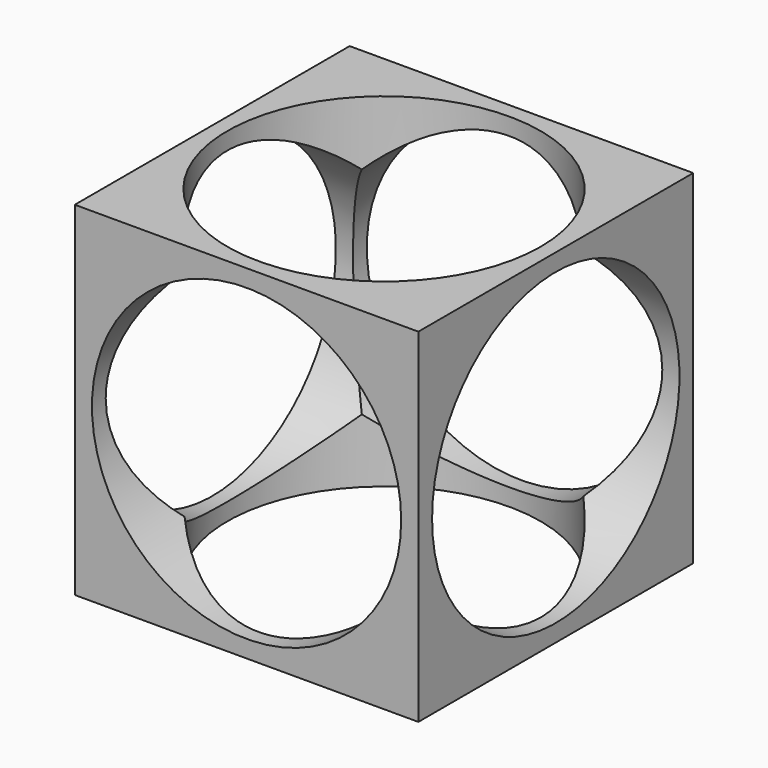
from build123d import *

# Parameters (mm, degrees)
F0_W     = 50
F0_H     = 50
F1_DEPTH = 50
F2_R     = 22.803226
F3_DEPTH = 50
F4_R     = 22.5
F5_DEPTH = 50
F6_R     = 22.5
F7_DEPTH = 50


with BuildPart() as f1:
    # F0 (on Top) → F1 (new body)
    with BuildSketch(Plane.XY):
        Rectangle(F0_W, F0_H)
    extrude(amount=F1_DEPTH)

    # F2 (on face) → F3 (cut)
    with BuildSketch(Plane.XY.offset(50)):
        Circle(F2_R)
    extrude(amount=-F3_DEPTH, mode=Mode.SUBTRACT)

    # F4 (on face) → F5 (cut)
    with BuildSketch(Plane.XZ.offset(25)):
        with Locations((0, 25)):
            Circle(F4_R)
    extrude(amount=-F5_DEPTH, mode=Mode.SUBTRACT)

    # F6 (on face) → F7 (cut)
    with BuildSketch(Plane(origin=(-25, 0, 0), x_dir=(0, -1, 0), z_dir=(-1, 0, 0))):
        with Locations((0, 25)):
            Circle(F6_R)
    extrude(amount=-F7_DEPTH, mode=Mode.SUBTRACT)


solid = f1.part
